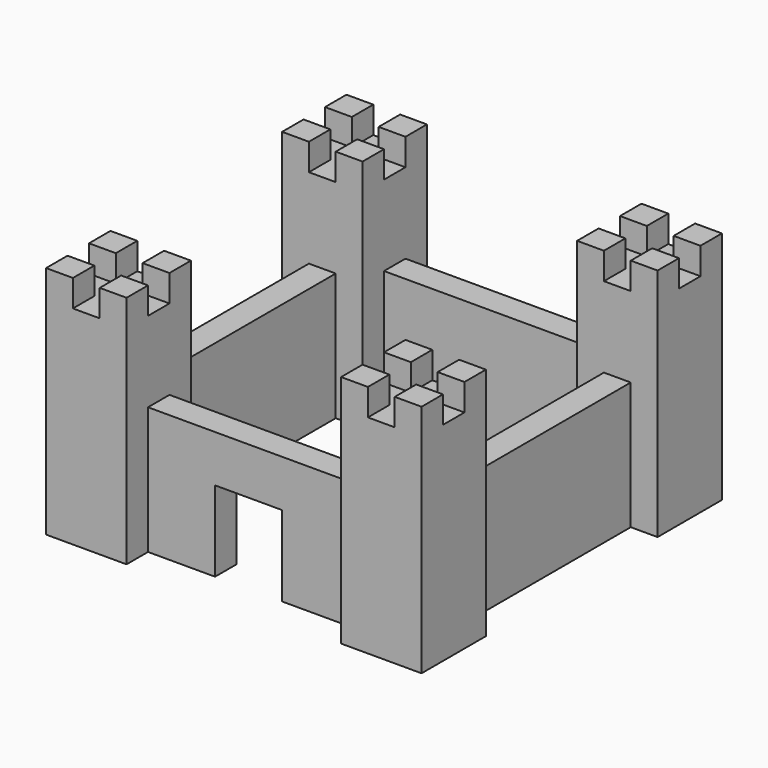
from build123d import *

# Parameters (mm, degrees)
BOX001_W     = 12
BOX001_H     = 4
BOX001_DEPTH = 4
BOX002_W     = 12
BOX002_H     = 4
BOX002_DEPTH = 4
BOX_W        = 12
BOX_H        = 12
BOX_DEPTH    = 35
BOX003_W     = 4
BOX003_H     = 32
BOX003_DEPTH = 19
BOX005_W     = 12
BOX005_H     = 4
BOX005_DEPTH = 4
BOX006_W     = 12
BOX006_H     = 4
BOX006_DEPTH = 4
BOX004_W     = 12
BOX004_H     = 12
BOX004_DEPTH = 35
BOX007_W     = 4
BOX007_H     = 32
BOX007_DEPTH = 19
BOX009_W     = 12
BOX009_H     = 4
BOX009_DEPTH = 4
BOX010_W     = 12
BOX010_H     = 4
BOX010_DEPTH = 4
BOX008_W     = 12
BOX008_H     = 12
BOX008_DEPTH = 35
BOX011_W     = 4
BOX011_H     = 32
BOX011_DEPTH = 19
BOX013_W     = 12
BOX013_H     = 4
BOX013_DEPTH = 4
BOX014_W     = 12
BOX014_H     = 4
BOX014_DEPTH = 4
BOX012_W     = 12
BOX012_H     = 12
BOX012_DEPTH = 35
BOX016_W     = 10
BOX016_H     = 10
BOX016_DEPTH = 12
BOX015_W     = 4
BOX015_H     = 32
BOX015_DEPTH = 19


with BuildPart() as cube001:
    # Box001 → Box001 (new body)
    with BuildSketch(Plane(origin=(0, 4, 31), x_dir=(1, 0, 0), z_dir=(0, 0, 1))):
        with Locations((6, 2)):
            Rectangle(BOX001_W, BOX001_H)
    extrude(amount=BOX001_DEPTH)


with BuildPart() as fusion:
    # Box002 → Box002 (new body)
    with BuildSketch(Plane(origin=(8, 0, 31), x_dir=(0, 1, 0), z_dir=(0, 0, 1))):
        with Locations((6, 2)):
            Rectangle(BOX002_W, BOX002_H)
    extrude(amount=BOX002_DEPTH)

    # Fusion: union Cube001
    add(cube001.part)


with BuildPart() as obj1:
    # Box → Box (new body)
    with BuildSketch(Plane.XY):
        with Locations((6, 6)):
            Rectangle(BOX_W, BOX_H)
    extrude(amount=BOX_DEPTH)

    # Cut: cut Fusion
    add(fusion.part, mode=Mode.SUBTRACT)


with BuildPart() as wall_l:
    # Box003 → Box003 (new body)
    with BuildSketch(Plane(origin=(4, 12, 0), x_dir=(1, 0, 0), z_dir=(0, 0, 1))):
        with Locations((2, 16)):
            Rectangle(BOX003_W, BOX003_H)
    extrude(amount=BOX003_DEPTH)


with BuildPart() as cube004:
    # Box005 → Box005 (new body)
    with BuildSketch(Plane(origin=(0, 4, 31), x_dir=(1, 0, 0), z_dir=(0, 0, 1))):
        with Locations((6, 2)):
            Rectangle(BOX005_W, BOX005_H)
    extrude(amount=BOX005_DEPTH)


with BuildPart() as fusion001:
    # Box006 → Box006 (new body)
    with BuildSketch(Plane(origin=(8, 0, 31), x_dir=(0, 1, 0), z_dir=(0, 0, 1))):
        with Locations((6, 2)):
            Rectangle(BOX006_W, BOX006_H)
    extrude(amount=BOX006_DEPTH)

    # Fusion001: union Cube004
    add(cube004.part)


with BuildPart() as obj2:
    # Box004 → Box004 (new body)
    with BuildSketch(Plane.XY):
        with Locations((6, 6)):
            Rectangle(BOX004_W, BOX004_H)
    extrude(amount=BOX004_DEPTH)

    # Cut001: cut Fusion001
    add(fusion001.part, mode=Mode.SUBTRACT)


with BuildPart() as obj2_1:
    # Cut001 placement: moved
    add(obj2.part.moved(Location((0, 44, 0))))


with BuildPart() as wall_b:
    # Box007 → Box007 (new body)
    with BuildSketch(Plane(origin=(44, 48, 0), x_dir=(0, 1, 0), z_dir=(0, 0, 1))):
        with Locations((2, 16)):
            Rectangle(BOX007_W, BOX007_H)
    extrude(amount=BOX007_DEPTH)


with BuildPart() as cube007:
    # Box009 → Box009 (new body)
    with BuildSketch(Plane(origin=(0, 4, 31), x_dir=(1, 0, 0), z_dir=(0, 0, 1))):
        with Locations((6, 2)):
            Rectangle(BOX009_W, BOX009_H)
    extrude(amount=BOX009_DEPTH)


with BuildPart() as fusion002:
    # Box010 → Box010 (new body)
    with BuildSketch(Plane(origin=(8, 0, 31), x_dir=(0, 1, 0), z_dir=(0, 0, 1))):
        with Locations((6, 2)):
            Rectangle(BOX010_W, BOX010_H)
    extrude(amount=BOX010_DEPTH)

    # Fusion002: union Cube007
    add(cube007.part)


with BuildPart() as obj3:
    # Box008 → Box008 (new body)
    with BuildSketch(Plane.XY):
        with Locations((6, 6)):
            Rectangle(BOX008_W, BOX008_H)
    extrude(amount=BOX008_DEPTH)

    # Cut002: cut Fusion002
    add(fusion002.part, mode=Mode.SUBTRACT)


with BuildPart() as obj3_1:
    # Cut002 placement: moved
    add(obj3.part.moved(Location((44, 44, 0))))


with BuildPart() as wall_r:
    # Box011 → Box011 (new body)
    with BuildSketch(Plane(origin=(48, 12, 0), x_dir=(1, 0, 0), z_dir=(0, 0, 1))):
        with Locations((2, 16)):
            Rectangle(BOX011_W, BOX011_H)
    extrude(amount=BOX011_DEPTH)


with BuildPart() as cube010:
    # Box013 → Box013 (new body)
    with BuildSketch(Plane(origin=(0, 4, 31), x_dir=(1, 0, 0), z_dir=(0, 0, 1))):
        with Locations((6, 2)):
            Rectangle(BOX013_W, BOX013_H)
    extrude(amount=BOX013_DEPTH)


with BuildPart() as fusion003:
    # Box014 → Box014 (new body)
    with BuildSketch(Plane(origin=(8, 0, 31), x_dir=(0, 1, 0), z_dir=(0, 0, 1))):
        with Locations((6, 2)):
            Rectangle(BOX014_W, BOX014_H)
    extrude(amount=BOX014_DEPTH)

    # Fusion003: union Cube010
    add(cube010.part)


with BuildPart() as tower_fr:
    # Box012 → Box012 (new body)
    with BuildSketch(Plane.XY):
        with Locations((6, 6)):
            Rectangle(BOX012_W, BOX012_H)
    extrude(amount=BOX012_DEPTH)

    # Cut003: cut Fusion003
    add(fusion003.part, mode=Mode.SUBTRACT)


with BuildPart() as tower_fr_1:
    # Cut003 placement: moved
    add(tower_fr.part.moved(Location((44, 0, 0))))


with BuildPart() as cube012:
    # Box016 → Box016 (new body)
    with BuildSketch(Plane(origin=(22, 0, 0), x_dir=(1, 0, 0), z_dir=(0, 0, 1))):
        with Locations((5, 5)):
            Rectangle(BOX016_W, BOX016_H)
    extrude(amount=BOX016_DEPTH)


with BuildPart() as cut004:
    # Box015 → Box015 (new body)
    with BuildSketch(Plane(origin=(44, 4, 0), x_dir=(0, 1, 0), z_dir=(0, 0, 1))):
        with Locations((2, 16)):
            Rectangle(BOX015_W, BOX015_H)
    extrude(amount=BOX015_DEPTH)

    # Cut004: cut Cube012
    add(cube012.part, mode=Mode.SUBTRACT)


solid = Compound([obj1.part, wall_l.part, obj2_1.part, wall_b.part, obj3_1.part, wall_r.part, tower_fr_1.part, cut004.part])
